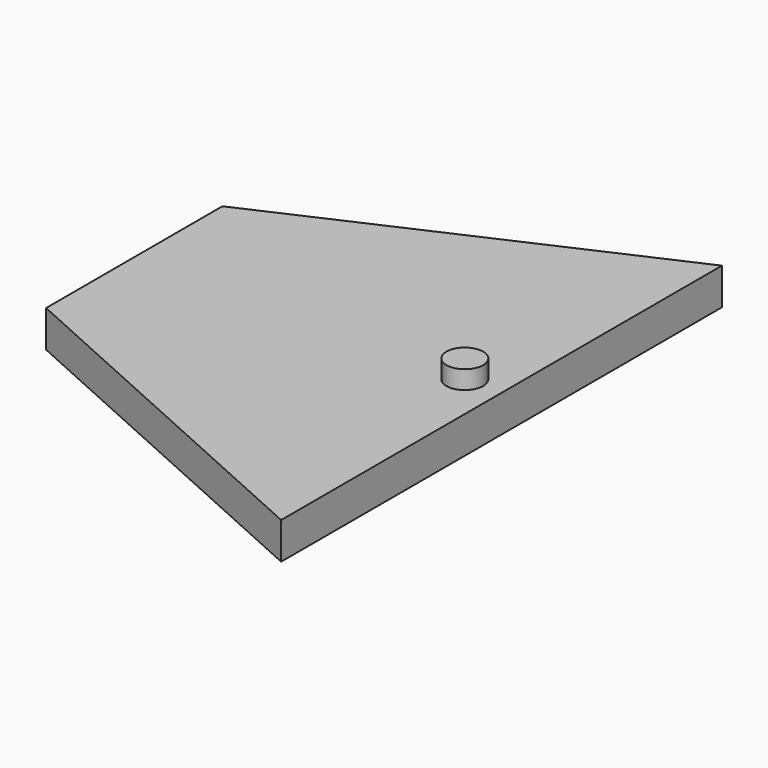
from build123d import *

# Parameters (mm, degrees)
F1_DEPTH = 10
F2_R     = 5
F3_DEPTH = 5


with BuildPart() as f1:
    # F0 (on Top) → F1 (new body)
    with BuildSketch(Plane.XY):
        Polygon((0, 30), (0, -30), (100, -75), (100, 75), align=None)
    extrude(amount=F1_DEPTH)

    # F2 (on face) → F3 (join)
    with BuildSketch(Plane.XY.offset(10)):
        with Locations((90, 0)):
            Circle(F2_R)
    extrude(amount=F3_DEPTH)


solid = f1.part
